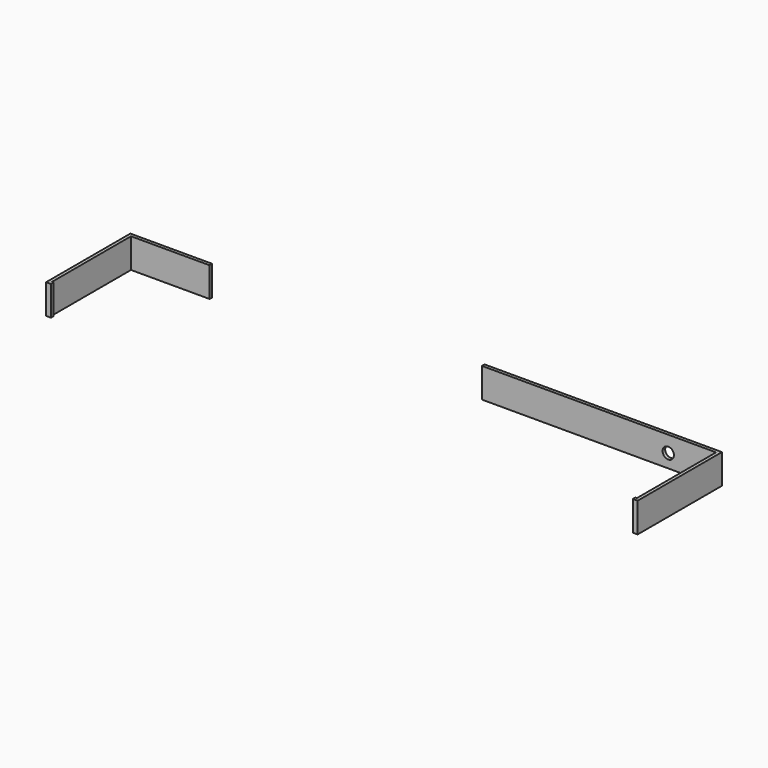
from build123d import *

# Parameters (mm, degrees)
SKETCH156_R      = 3.5
EXTRUDE146_DEPTH = 10
EXTRUDE031_DEPTH = 18.32


with BuildPart() as extrude146:
    # Sketch156 → Extrude146 (new body)
    with BuildSketch(Plane(origin=(0, 280, 0), x_dir=(-1, 0, 0), z_dir=(0, 1, 0))):
        with Locations((-330, -3.64)):
            Circle(SKETCH156_R)
    extrude(amount=-EXTRUDE146_DEPTH)


with BuildPart() as side004:
    # Sketch037 → Extrude031 (new body)
    with BuildSketch(Plane(origin=(0, 0, 6.32), x_dir=(1, 0, 0), z_dir=(0, 0, -1))):
        Polygon((361.5, -213.5), (361.5, -278.5), (215, -278.5), (215, -276.5), (359.5, -276.5), (359.5, -215.5), (358.5, -215.5), (358.5, -213.5), align=None)
        Polygon((-3.5, -278.5), (-3.5, -213.5), (-0.5, -213.5), (-0.5, -215.5), (-1.5, -215.5), (-1.5, -276.5), (47, -276.5), (47, -278.5), align=None)
    extrude(amount=EXTRUDE031_DEPTH)

    # Cut016: cut Extrude146
    add(extrude146.part, mode=Mode.SUBTRACT)


solid = side004.part
